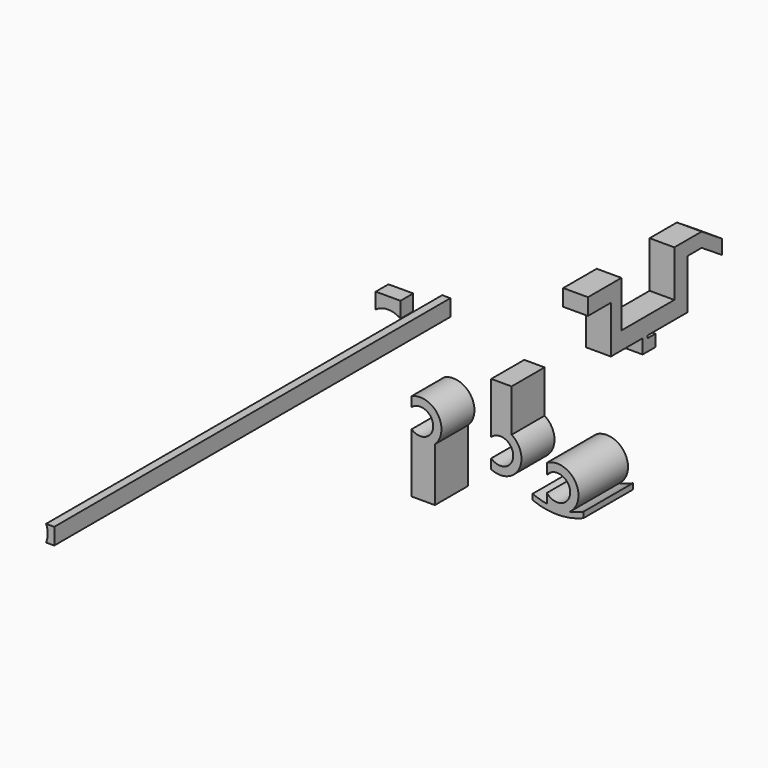
from build123d import *

# Parameters (mm, degrees)
F3_DEPTH  = 12.7
F4_DEPTH  = 12.7
F5_DEPTH  = 19.05
F7_DEPTH  = 152.4
F9_DEPTH  = 7.62
F11_DEPTH = 4.9022


with BuildPart() as f3:
    # F1 (on Front) → F3 (new body)
    with BuildSketch(Plane.XZ):
        with BuildLine():
            ThreePointArc((-27.288161, 2.993028), (-20.633271, 0), (-27.288161, -2.993028))
            Line((-27.288161, -2.993028), (-27.288161, -5.977655))
            Line((-27.288161, -5.977655), (-27.288161, -21.217655))
            Line((-27.288161, -21.217655), (-20.112188, -21.217655))
            Line((-20.112188, -21.217655), (-20.112188, -4.725825))
            ThreePointArc((-20.112188, -4.725825), (-19.20121, 3.642172), (-27.288161, 5.977655))
            Line((-27.288161, 5.977655), (-27.288161, 2.993028))
        make_face()
    extrude(amount=F3_DEPTH)


with BuildPart() as f4:
    # F0 (on Front) → F4 (new body)
    with BuildSketch(Plane.XZ):
        with BuildLine():
            ThreePointArc((-2.770346, 2.886032), (4.0005, 0), (-2.770346, -2.886032))
            Line((-2.770346, -2.886032), (-2.770346, -5.924806))
            ThreePointArc((-2.770346, -5.924806), (5.73865, -3.137839), (3.492884, 5.529729))
            Line((3.492884, 5.529729), (3.492884, 18.624806))
            Line((3.492884, 18.624806), (-2.770346, 18.624806))
            Line((-2.770346, 18.624806), (-2.770346, 5.924806))
            Line((-2.770346, 5.924806), (-2.770346, 2.886032))
        make_face()
    extrude(amount=F4_DEPTH)


with BuildPart() as f5:
    # F2 (on Front) → F5 (new body)
    with BuildSketch(Plane.XZ):
        with BuildLine():
            ThreePointArc((19.458382, 2.446432), (26.624157, 0), (19.458382, -2.446432))
            Line((19.458382, -2.446432), (19.458382, -5.420756))
            ThreePointArc((19.458382, -5.420756), (22.966455, -5.68159), (26.462917, -5.295113))
            ThreePointArc((26.462917, -5.295113), (28.143292, 3.508813), (19.458382, 5.723563))
            Line((19.458382, 5.723563), (19.458382, 2.446432))
        make_face()
        with BuildLine():
            ThreePointArc((26.462917, -5.295113), (22.966455, -5.68159), (19.458382, -5.420756))
            ThreePointArc((19.458382, -5.420756), (17.213965, -4.90315), (15.048106, -4.11933))
            Line((15.048106, -4.11933), (15.048106, -5.854257))
            ThreePointArc((15.048106, -5.854257), (22.884073, -7.287287), (30.681542, -5.657738))
            Line((30.681542, -5.657738), (30.681542, -3.90315))
            ThreePointArc((30.681542, -3.90315), (28.612806, -4.722107), (26.462917, -5.295113))
        make_face()
    extrude(amount=F5_DEPTH)


with BuildPart() as f7:
    # F6 (on Front) → F7 (new body)
    with BuildSketch(Plane.XZ):
        with BuildLine():
            Line((-25.511014, 27.939167), (-28.02622, 27.939167))
            ThreePointArc((-28.02622, 27.939167), (-27.51287, 25.399167), (-28.02622, 22.859167))
            Line((-28.02622, 22.859167), (-25.511014, 22.859167))
            Line((-25.511014, 22.859167), (-25.511014, 27.939167))
        make_face()
    extrude(amount=F7_DEPTH)


with BuildPart() as f9:
    # F8 (on Right) → F9 (new body)
    with BuildSketch(Plane.YZ):
        Polygon((24.413109, 34.291358), (11.52972, 34.291358), (11.52972, 29.205807), (20.344674, 29.205807), (20.344674, 20.051818), (20.344674, 14.627233), (32.549993, 14.627233), (32.549993, 10.210037), (37.452193, 10.210037), (37.452193, 13.843876), (34.509048, 13.843876), (34.509048, 14.627233), (44.755312, 14.627233), (49.84086, 14.627233), (49.84086, 29.88388), (55.265452, 29.88388), (63.063295, 24.798328), (63.063295, 29.205807), (55.265452, 34.291358), (49.84086, 34.291358), (44.755312, 34.291358), (44.755312, 20.051818), (24.413109, 20.051818), (24.413109, 29.205807), align=None)
    extrude(amount=F9_DEPTH)


with BuildPart() as f11:
    # F10 (on Front) → F11 (new body)
    with BuildSketch(Plane.XZ):
        with BuildLine():
            Line((-36.941752, 25.509252), (-44.561752, 25.509252))
            Line((-44.561752, 25.509252), (-44.561752, 20.665456))
            ThreePointArc((-44.561752, 20.665456), (-40.751752, 21.88975), (-36.941752, 20.665456))
            Line((-36.941752, 20.665456), (-36.941752, 25.509252))
        make_face()
    extrude(amount=F11_DEPTH)


solid = Compound([f3.part, f4.part, f5.part, f7.part, f9.part, f11.part])
